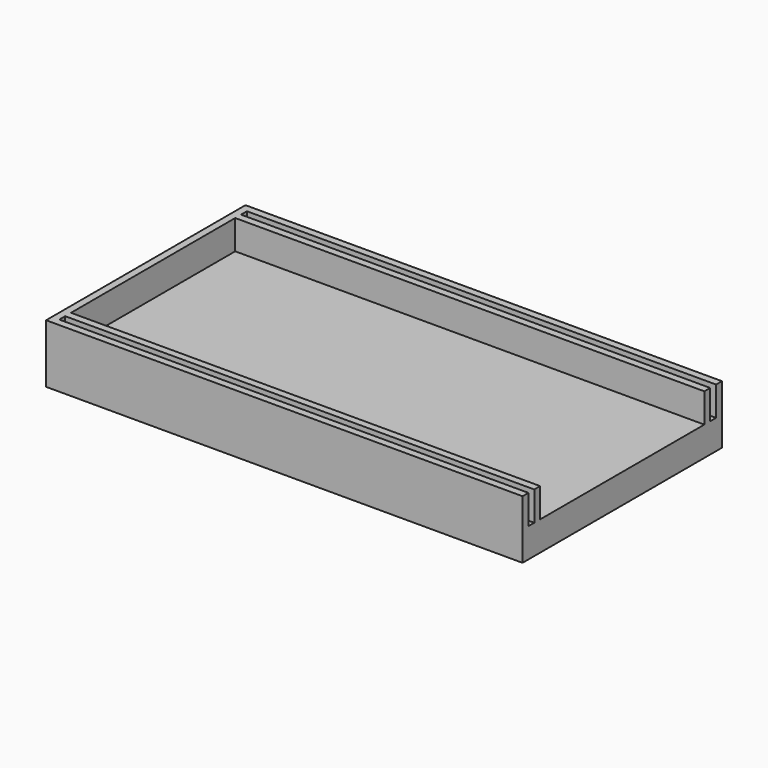
from build123d import *

# Parameters (mm, degrees)
F0_W     = 101.6
F0_H     = 50.8
F1_DEPTH = 6.35
F3_DEPTH = 12.7


with BuildPart() as f1:
    # F0 (on Top) → F1 (new body)
    with BuildSketch(Plane.XY):
        Rectangle(F0_W, F0_H)
    extrude(amount=F1_DEPTH)

    # F2 (on Top) → F3 (join)
    with BuildSketch(Plane.XY):
        Polygon((50.8, 25.4), (50.8, 26.9875), (-52.3875, 26.9875), (-52.3875, -26.9875), (50.8, -26.9875), (50.8, -25.4), (-50.8, -25.4), (-50.8, -23.8125), (50.8, -23.8125), (50.8, -22.225), (-50.8, -22.225), (-50.8, 22.225), (50.8, 22.225), (50.8, 23.8125), (-50.8, 23.8125), (-50.8, 25.4), align=None)
    extrude(amount=F3_DEPTH)


solid = f1.part
